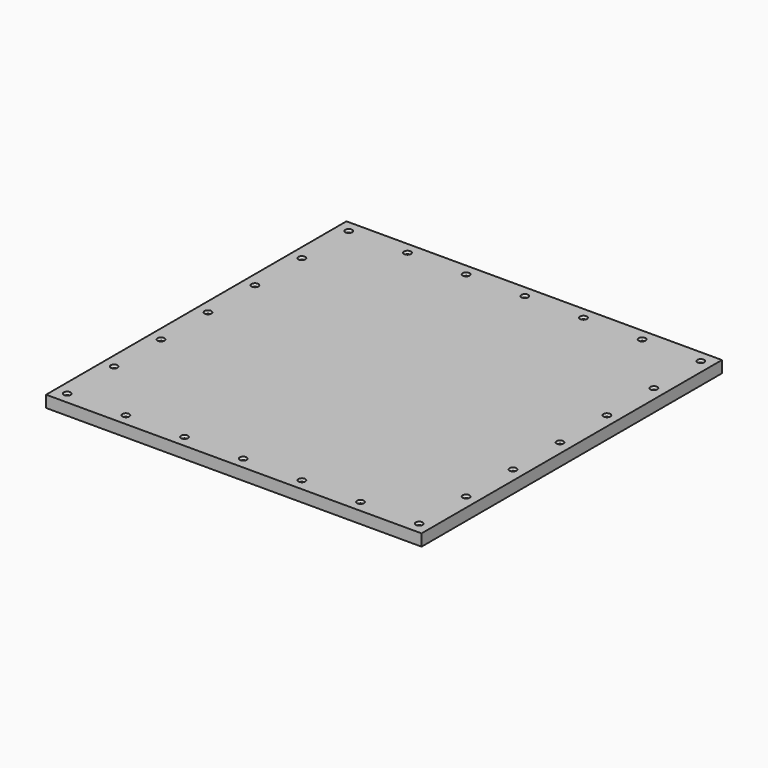
from build123d import *

# Parameters (mm, degrees)
F0_W           = 609.6
F0_H           = 609.6
F1_DEPTH       = 19.05
F3_D           = 5
F3_CSINK_D     = 11.2
F3_CSINK_ANGLE = 90


with BuildPart() as f1:
    # F0 (on Top) → F1 (new body)
    with BuildSketch(Plane.XY):
        with Locations((304.8, 304.8)):
            Rectangle(F0_W, F0_H)
    extrude(amount=F1_DEPTH)

    # F3 (through all)
    with Locations(Plane.XY.offset(19.05)):
        with Locations((19.05, 304.8), (19.05, 400.05), (19.05, 495.3), (19.05, 590.55), (114.3, 590.55), (209.55, 590.55), (304.8, 590.55), (400.05, 590.55), (495.3, 590.55), (590.55, 590.55), (590.55, 495.3), (590.55, 400.05), (590.55, 304.8), (590.55, 209.55), (590.55, 114.3), (590.55, 19.05), (495.3, 19.05), (400.05, 19.05), (304.8, 19.05), (209.55, 19.05), (114.3, 19.05), (19.05, 19.05), (19.05, 114.3), (19.05, 209.55), (19.05, 114.3)):
            CounterSinkHole(F3_D / 2, F3_CSINK_D / 2, counter_sink_angle=F3_CSINK_ANGLE)


solid = f1.part
